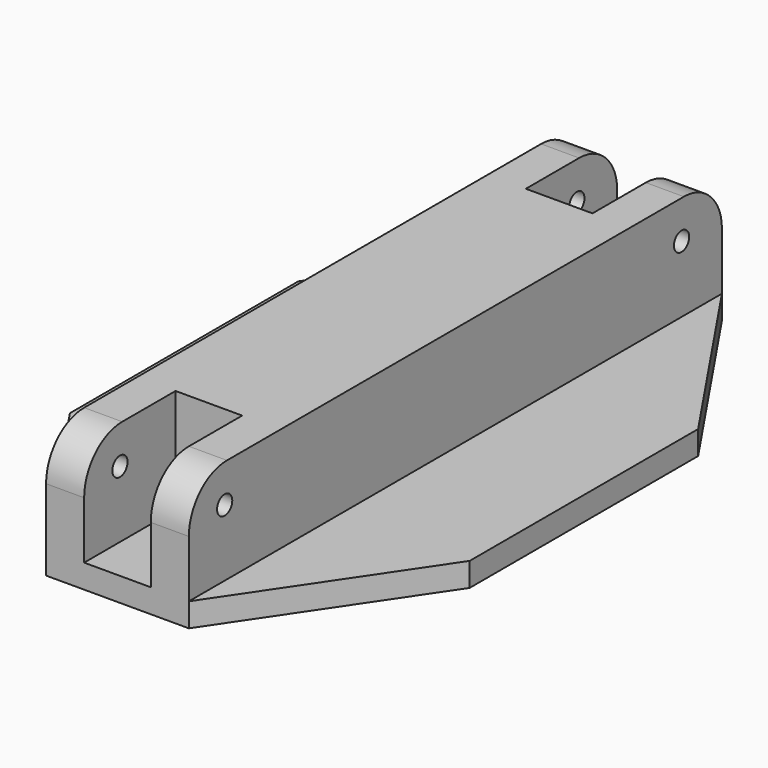
from build123d import *

# Parameters (mm, degrees)
F0_W     = 8.5
F0_H     = 24
F0_W_2   = 7
F0_H_2   = 12
F0_W_3   = 5
F1_DEPTH = 2.5
F2_DEPTH = 13.5
F3_R     = 1
F4_DEPTH = 12.5
F5_R     = 5
F6_R     = 5


with BuildPart() as f1:
    # F0 (on Top) → F1 (new body)
    with BuildSketch(Plane.XY):
        with Locations((12.10625, 0.3)):
            Rectangle(F0_W, F0_H)
        Polygon((-3.14375, 35.3), (-7.14375, 35.3), (-7.14375, 15.3), (-7.14375, 12.3), (-7.14375, -11.7), (-7.14375, -14.7), (-7.14375, -34.7), (-3.14375, -34.7), (-3.14375, -22.7), (3.85625, -22.7), (3.85625, -34.7), (7.85625, -34.7), (7.85625, -14.7), (7.85625, -11.7), (7.85625, 12.3), (7.85625, 15.3), (7.85625, 35.3), (3.85625, 35.3), (3.85625, 23.3), (-3.14375, 23.3), align=None)
        with Locations((0.35625, 29.3)):
            Rectangle(F0_W_2, F0_H_2)
        with Locations((0.35625, -28.7)):
            Rectangle(F0_W_2, F0_H_2)
        Polygon((-7.14375, 15.3), (-7.14375, 35.3), (-20.64375, 15.3), align=None)
        Polygon((21.35625, 15.3), (7.85625, 35.3), (7.85625, 15.3), align=None)
        Polygon((-7.14375, -34.7), (-7.14375, -14.7), (-20.64375, -14.7), align=None)
        Polygon((21.35625, -14.7), (7.85625, -14.7), (7.85625, -34.7), align=None)
        with Locations((-18.14375, 0.3)):
            Rectangle(F0_W_3, F0_H)
        with Locations((18.85625, 0.3)):
            Rectangle(F0_W_3, F0_H)
        Polygon((-7.14375, 12.3), (-7.14375, 15.3), (-20.64375, 15.3), (-20.64375, 12.3), (-15.64375, 12.3), align=None)
        Polygon((-7.14375, -14.7), (-7.14375, -11.7), (-15.64375, -11.7), (-20.64375, -11.7), (-20.64375, -14.7), align=None)
        Polygon((21.35625, 15.3), (7.85625, 15.3), (7.85625, 12.3), (16.35625, 12.3), (21.35625, 12.3), align=None)
        Polygon((16.35625, -11.7), (7.85625, -11.7), (7.85625, -14.7), (21.35625, -14.7), (21.35625, -11.7), align=None)
        with Locations((-11.39375, 0.3)):
            Rectangle(F0_W, F0_H)
    extrude(amount=F1_DEPTH)

    # F0 (on Top) → F2 (join)
    with BuildSketch(Plane.XY):
        Polygon((-3.14375, 35.3), (-7.14375, 35.3), (-7.14375, 15.3), (-7.14375, 12.3), (-7.14375, -11.7), (-7.14375, -14.7), (-7.14375, -34.7), (-3.14375, -34.7), (-3.14375, -22.7), (3.85625, -22.7), (3.85625, -34.7), (7.85625, -34.7), (7.85625, -14.7), (7.85625, -11.7), (7.85625, 12.3), (7.85625, 15.3), (7.85625, 35.3), (3.85625, 35.3), (3.85625, 23.3), (-3.14375, 23.3), align=None)
    extrude(amount=F2_DEPTH)

    # F3 (on Right) → F4 (cut, symmetric)
    with BuildSketch(Plane.YZ):
        with Locations((-30, 9.5)):
            Circle(F3_R)
        with Locations((30, 9.5)):
            Circle(F3_R)
    extrude(amount=F4_DEPTH, both=True, mode=Mode.SUBTRACT)

    # F5
    f5_edges = [f1.edges().sort_by_distance(p)[0] for p in [
        (-5.14375, -34.7, 13.5),
        (5.85625, -34.7, 13.5),
    ]]
    fillet(f5_edges, radius=F5_R)

    # F6
    f6_edges = [f1.edges().sort_by_distance(p)[0] for p in [
        (5.85625, 35.3, 13.5),
        (-5.14375, 35.3, 13.5),
    ]]
    fillet(f6_edges, radius=F6_R)


solid = f1.part
